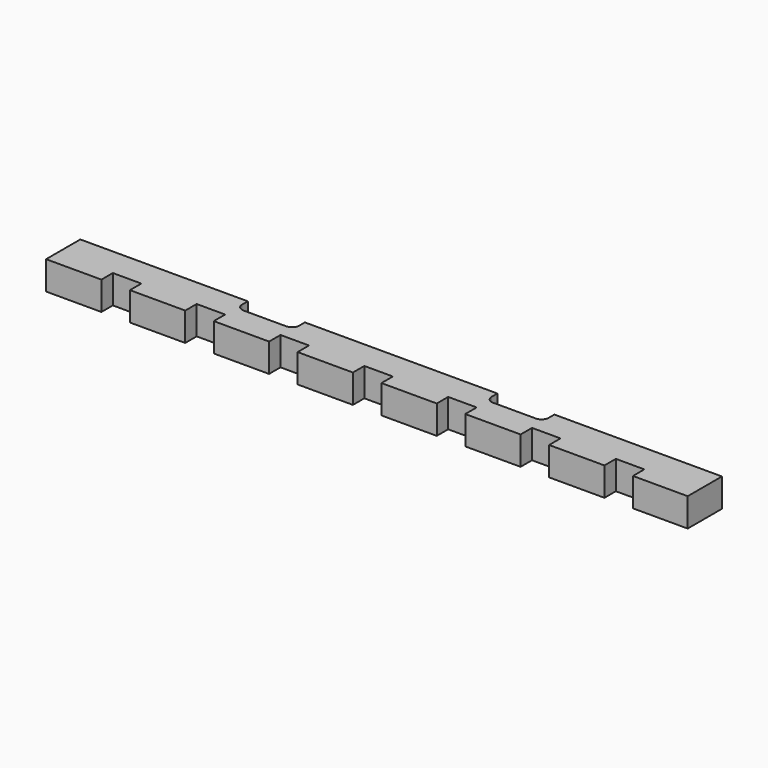
from build123d import *

# Parameters (mm, degrees)
F1_DEPTH = 25.4
F2_W     = 50.8
F2_H     = 25.4
F3_DEPTH = 25.401
F4_R     = 6.35


with BuildPart() as f1:
    # F0 (on Top) → F1 (new body)
    with BuildSketch(Plane.XY):
        Polygon((285.75, 19.05), (-285.75, 19.05), (-285.75, -19.05), (-236.474, -19.05), (-236.474, -6.35), (-211.074, -6.35), (-211.074, -19.05), (-161.798, -19.05), (-161.798, -6.35), (-136.398, -6.35), (-136.398, -19.05), (-87.122, -19.05), (-87.122, -6.35), (-61.722, -6.35), (-61.722, -19.05), (-12.446, -19.05), (-12.446, -6.35), (12.954, -6.35), (12.954, -19.05), (62.23, -19.05), (62.23, -6.35), (87.63, -6.35), (87.63, -19.05), (136.906, -19.05), (136.906, -6.35), (162.306, -6.35), (162.306, -19.05), (211.582, -19.05), (211.582, -6.35), (236.982, -6.35), (236.982, -19.05), (285.75, -19.05), align=None)
    extrude(amount=F1_DEPTH)

    # F2 (on face) → F3 (cut, through all)
    with BuildSketch(Plane.XY.offset(25.4)):
        with Locations((-111.125, 19.05)):
            Rectangle(F2_W, F2_H)
        with Locations((111.125, 19.05)):
            Rectangle(F2_W, F2_H)
    extrude(amount=-F3_DEPTH, mode=Mode.SUBTRACT)

    # F4
    f4_edges = [f1.edges().sort_by_distance(p)[0] for p in [
        (-136.525, 6.35, 12.7),
        (-85.725, 6.35, 12.7),
        (136.525, 6.35, 12.7),
        (85.725, 6.35, 12.7),
    ]]
    fillet(f4_edges, radius=F4_R)


solid = f1.part
